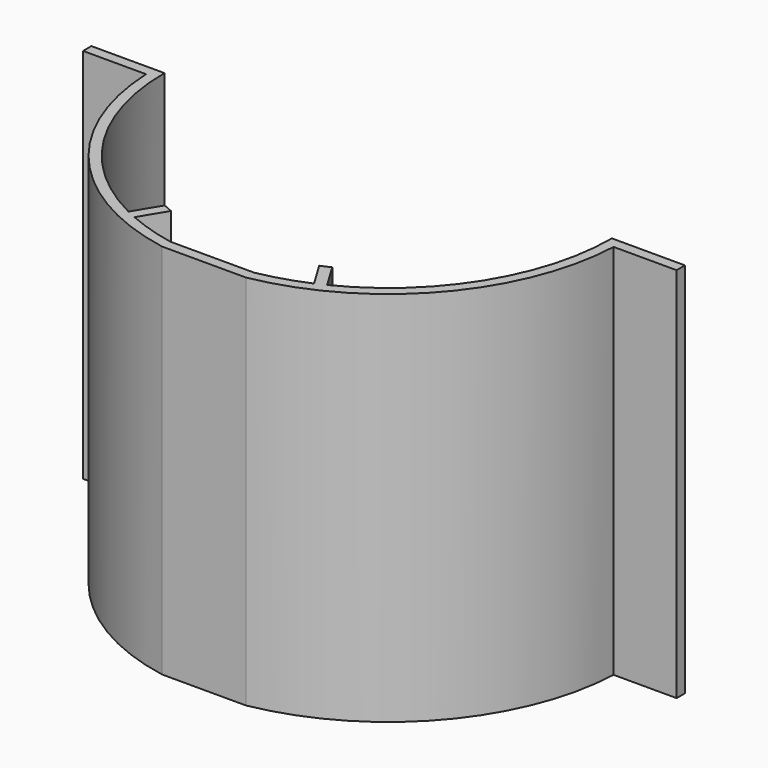
from build123d import *

# Parameters (mm, degrees)
F1_DEPTH = 90


with BuildPart() as f1:
    # F0 (on Top) → F1 (new body, symmetric)
    with BuildSketch(Plane.XY):
        with BuildLine():
            Line((-20, -110), (20, -110))
            ThreePointArc((20, -110), (84.2135107639, -73.5396804781), (111.6915395184, -5))
            Line((111.6915395184, -5), (141.803398875, -5))
            Line((141.803398875, -5), (141.803398875, 0))
            Line((141.803398875, 0), (111.803398875, 0))
            Line((111.803398875, 0), (106.8877916322, 0))
            ThreePointArc((106.8877916322, 0), (90.8221825431, -56.3589492282), (47.4547897971, -95.7760039118))
            Line((47.4547897971, -95.7760039118), (40, -83.4041365881))
            ThreePointArc((40, -83.4041365881), (37.714024203, -84.4624317576), (35.4000781032, -85.4580860439))
            Line((35.4000781032, -85.4580860439), (42.8981243525, -97.9017411849))
            ThreePointArc((42.8981243525, -97.9017411849), (31.6486939907, -102.094858679), (20, -105))
            Line((20, -105), (-20, -105))
            ThreePointArc((-20, -105), (-31.6486939907, -102.094858679), (-42.8981243525, -97.9017411849))
            Line((-42.8981243525, -97.9017411849), (-35.4000781032, -85.4580860439))
            ThreePointArc((-35.4000781032, -85.4580860439), (-37.714024203, -84.4624317576), (-40, -83.4041365881))
            Line((-40, -83.4041365881), (-47.4547897971, -95.7760039118))
            ThreePointArc((-47.4547897971, -95.7760039118), (-90.8221825431, -56.3589492282), (-106.8877916322, 0))
            Line((-106.8877916322, 0), (-111.803398875, 0))
            Line((-111.803398875, 0), (-141.803398875, 0))
            Line((-141.803398875, 0), (-141.803398875, -5))
            Line((-141.803398875, -5), (-111.6915395184, -5))
            ThreePointArc((-111.6915395184, -5), (-84.2135107639, -73.5396804781), (-20, -110))
        make_face()
    extrude(amount=F1_DEPTH, both=True)


solid = f1.part
